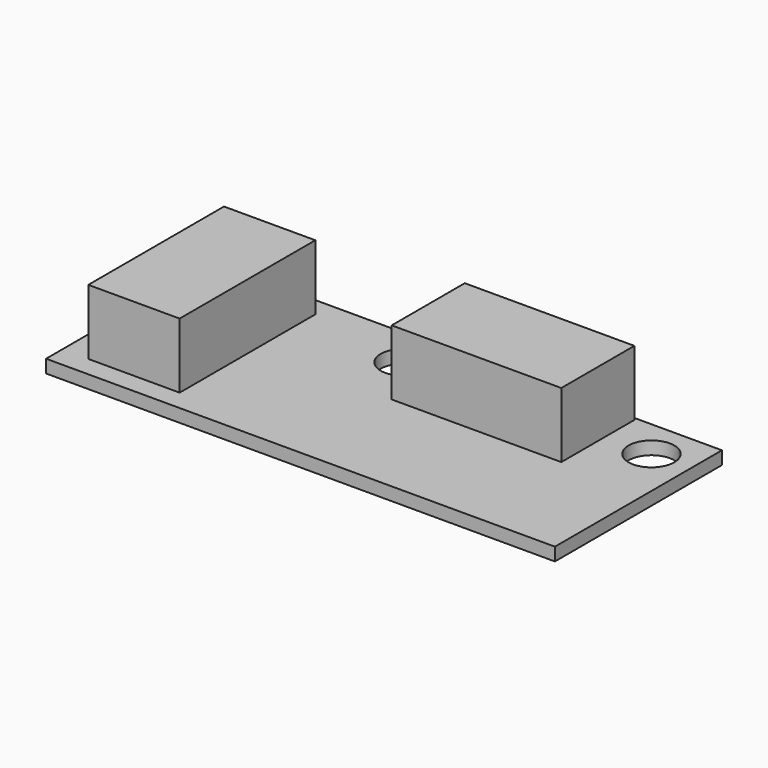
from build123d import *

# Parameters (mm, degrees)
F0_W     = 39
F0_H     = 16
F0_R     = 1.75
F1_DEPTH = 1
F2_W     = 13
F2_H     = 7
F2_W_2   = 7
F2_H_2   = 13
F3_DEPTH = 5


with BuildPart() as f1:
    # F0 (on Top) → F1 (new body)
    with BuildSketch(Plane.XY):
        with Locations((2.865384, -1.717949)):
            Rectangle(F0_W, F0_H)
        with Locations((0.365384, 3.282051)):
            Circle(F0_R, mode=Mode.SUBTRACT)
        with Locations((19.365384, 3.282051)):
            Circle(F0_R, mode=Mode.SUBTRACT)
    extrude(amount=F1_DEPTH)

    # F2 (on face) → F3 (join)
    with BuildSketch(Plane.XY.offset(1)):
        with Locations((9.317579, 2.578595)):
            Rectangle(F2_W, F2_H)
        with Locations((-11.142471, -1.662826)):
            Rectangle(F2_W_2, F2_H_2)
    extrude(amount=F3_DEPTH)


solid = f1.part
